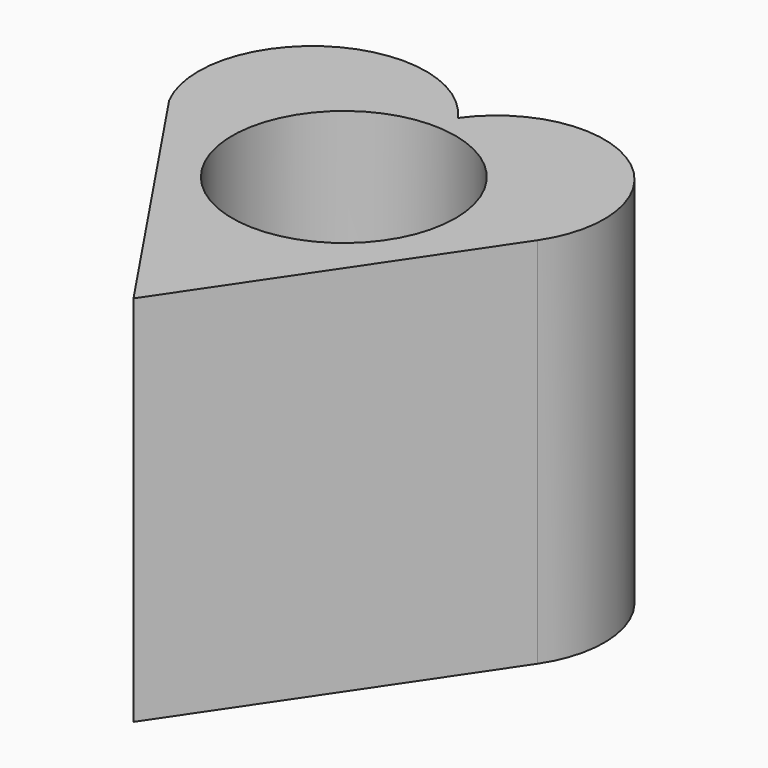
from build123d import *

# Parameters (mm, degrees)
F0_R     = 38.041544
F1_DEPTH = 127


with BuildPart() as f1:
    # F0 (on Top) → F1 (new body)
    with BuildSketch(Plane.XY):
        with BuildLine():
            Line((0, -75.455353), (62.977996, 17.82739))
            ThreePointArc((62.977996, 17.82739), (53.383612, 68.68723), (2.428438, 59.612778))
            ThreePointArc((2.428438, 59.612778), (-49.532817, 70.700029), (-63.842225, 19.532266))
            Line((-63.842225, 19.532266), (-59.077847, 12.443588))
            Line((-59.077847, 12.443588), (0, -75.455353))
        make_face()
        with Locations((0, 14.119413)):
            Circle(F0_R, mode=Mode.SUBTRACT)
    extrude(amount=F1_DEPTH)


solid = f1.part
